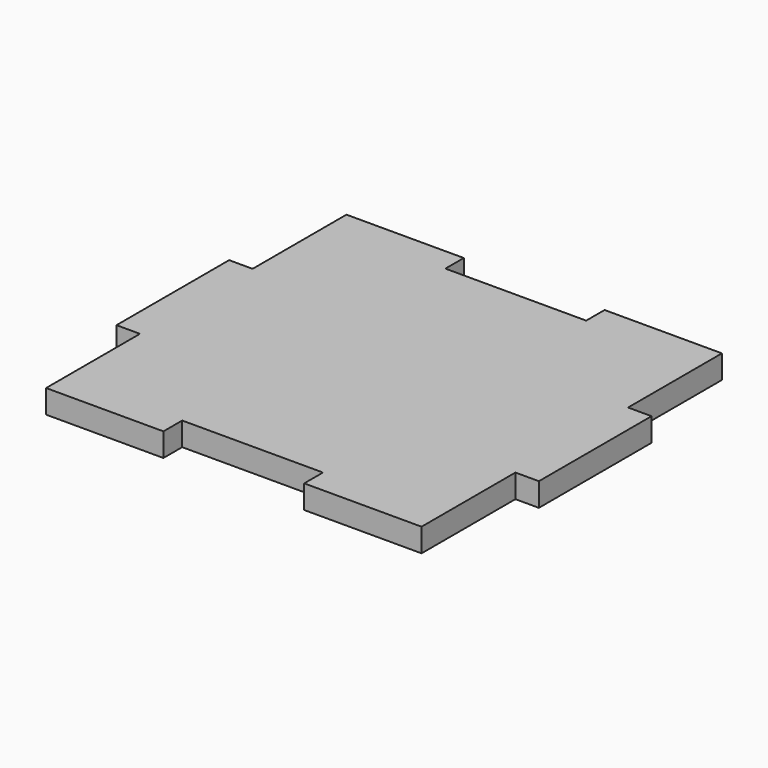
from build123d import *

# Parameters (mm, degrees)
F0_W     = 12.7
F0_H     = 76.2
F1_DEPTH = 12.7


with BuildPart() as f1:
    # F0 (on Top) → F1 (new body)
    with BuildSketch(Plane.XY):
        with Locations((-107.95, 0)):
            Rectangle(F0_W, F0_H)
        with Locations((-95.25, 0)):
            Rectangle(F0_W, F0_H)
        Polygon((-38.1, 101.6), (-101.6, 101.6), (-101.6, 38.1), (-88.9, 38.1), (-88.9, -38.1), (-101.6, -38.1), (-101.6, -101.6), (-38.1, -101.6), (-38.1, -88.9), (38.1, -88.9), (38.1, -101.6), (101.6, -101.6), (101.6, -38.1), (88.9, -38.1), (88.9, 38.1), (101.6, 38.1), (101.6, 101.6), (38.1, 101.6), (38.1, 89.154005), (-38.1, 89.154005), align=None)
        with Locations((95.25, 0)):
            Rectangle(F0_W, F0_H)
        with Locations((107.95, 0)):
            Rectangle(F0_W, F0_H)
    extrude(amount=F1_DEPTH)


solid = f1.part
